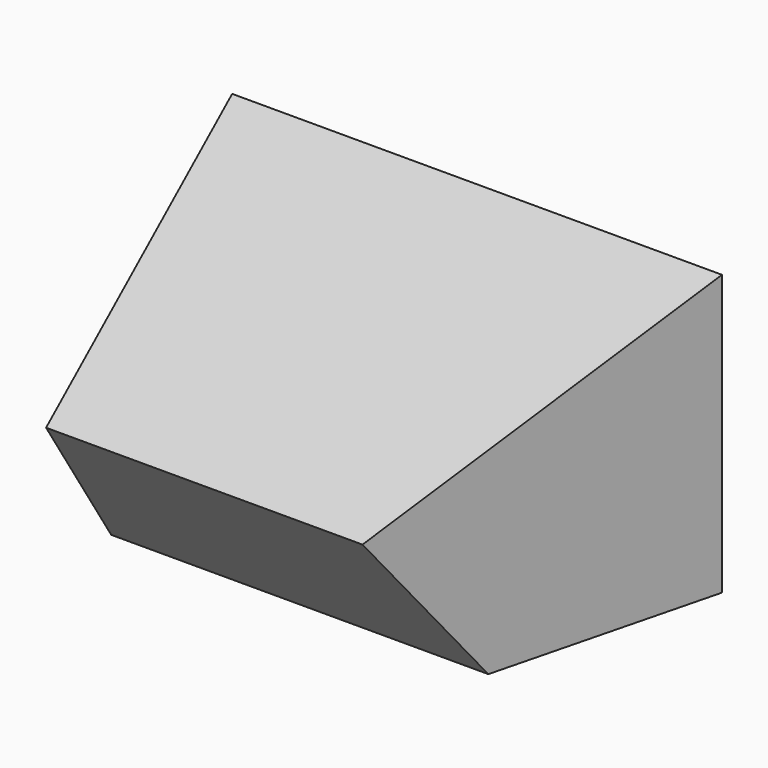
from build123d import *

# Parameters (mm, degrees)
PAD187_DEPTH    = 2.4
POCKET153_DEPTH = 5
POCKET154_DEPTH = 5


with BuildPart() as part:
    # Sketch321 (on Face1 of Binder) → Pad187 (new body)
    with BuildSketch(Plane.XY.offset(6.5)):
        Polygon((36.1, -3.2), (36.85, -6.15), (39.55, -6.15), (40.3, -3.2), align=None)
    extrude(amount=PAD187_DEPTH)

    # Sketch322 (on Face1 of Binder002) → Pocket153 (cut)
    with BuildSketch(Plane(origin=(36, 0, 0), x_dir=(0, -1, 0), z_dir=(-1, 0, 0))):
        Polygon((6.15, 7.8), (3.2, 8.9), (6.15, 8.9), align=None)
    extrude(amount=-POCKET153_DEPTH, mode=Mode.SUBTRACT)

    # Sketch323 (on Face1 of Binder002) → Pocket154 (cut)
    with BuildSketch(Plane(origin=(36, 0, 0), x_dir=(0, -1, 0), z_dir=(-1, 0, 0))):
        Polygon((6.123765, 7.809783), (5.1, 6.5), (6.15, 6.5), (6.15, 7.8), align=None)
    extrude(amount=-POCKET154_DEPTH, mode=Mode.SUBTRACT)


solid = part.part
